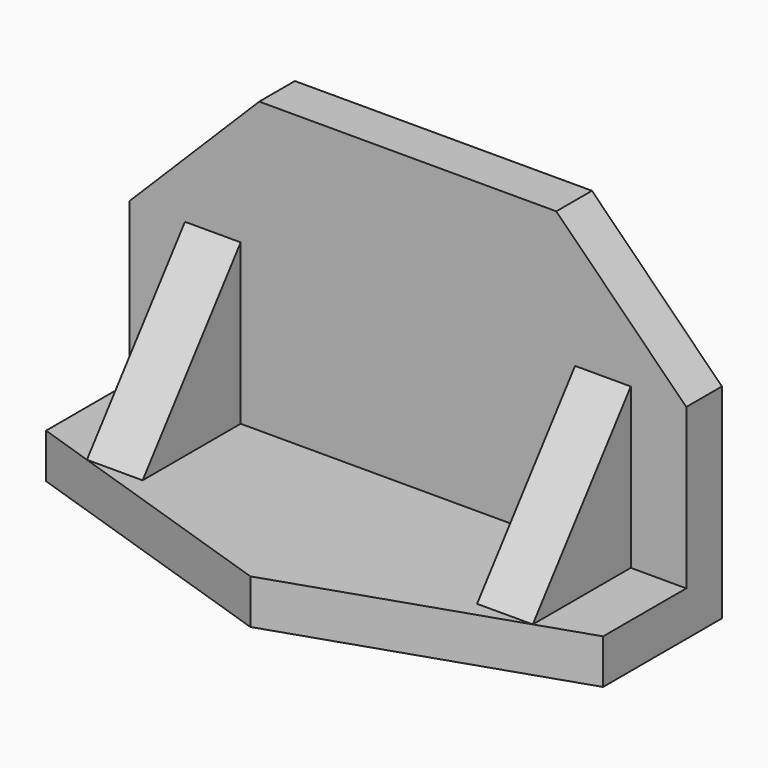
from build123d import *

# Parameters (mm, degrees)
PAD_DEPTH       = 12
PAD001_DEPTH    = 12
SKETCH002_W     = 15
SKETCH002_H     = 32.983024
PAD002_DEPTH    = 43
POCKET_DEPTH    = 135.051929
SKETCH004_W     = 15
SKETCH004_H     = 33
PAD003_DEPTH    = 43
POCKET001_DEPTH = 135.001


with BuildPart() as part:
    # Sketch → Pad (new body)
    with BuildSketch(Plane.XY):
        Polygon((-75, 0), (75, 0), (75, -40), (0, -65), (-75, -40), align=None)
    extrude(amount=PAD_DEPTH)

    # Sketch001 → Pad001 (new body)
    with BuildSketch(Plane(origin=(0, 0, 0), x_dir=(-1, 0, 0), z_dir=(0, 1, 0))):
        Polygon((75, 0), (-75, 0), (-75, 55), (-40, 90), (40, 90), (75, 55), align=None)
    extrude(amount=-PAD001_DEPTH)

    # Sketch002 → Pad002 (new body)
    with BuildSketch(Plane.XY.offset(12)):
        with Locations((52.550929, -28.491512)):
            Rectangle(SKETCH002_W, SKETCH002_H)
    extrude(amount=PAD002_DEPTH)

    # Sketch003 → Pocket (cut, through all)
    with BuildSketch(Plane.YZ.offset(60.050929)):
        Polygon((-44.983024, 12), (-12, 55), (-44.983024, 55), align=None)
    extrude(amount=-POCKET_DEPTH, mode=Mode.SUBTRACT)

    # Sketch004 → Pad003 (new body)
    with BuildSketch(Plane.XY.offset(12)):
        with Locations((-52.5, -28.5)):
            Rectangle(SKETCH004_W, SKETCH004_H)
    extrude(amount=PAD003_DEPTH)

    # Sketch005 → Pocket001 (cut, through all)
    with BuildSketch(Plane(origin=(-60, 0, 0), x_dir=(0, -1, 0), z_dir=(-1, 0, 0))):
        Polygon((12, 55), (45, 55), (45, 12), align=None)
    extrude(amount=-POCKET001_DEPTH, mode=Mode.SUBTRACT)


solid = part.part
